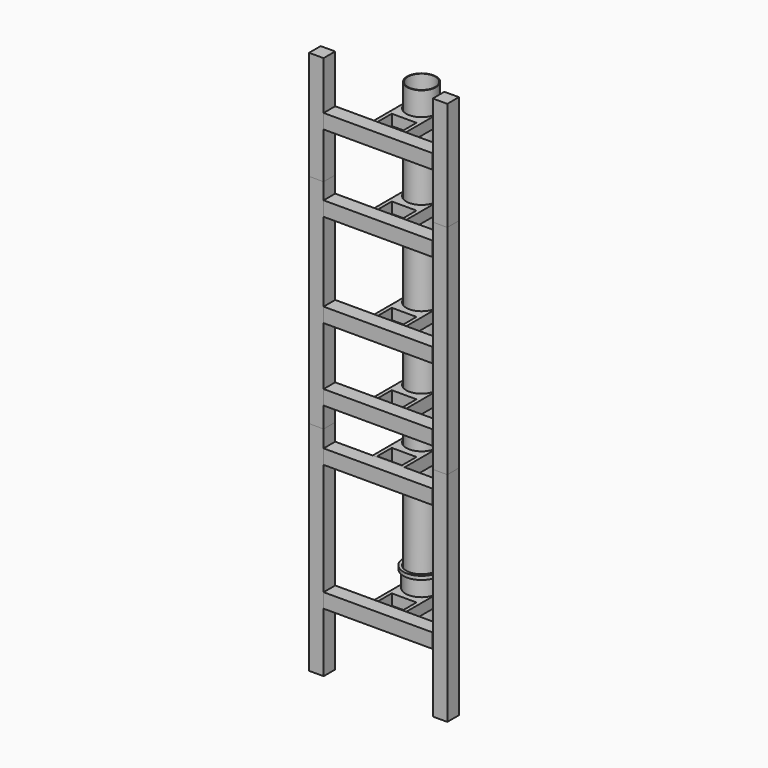
from build123d import *

# Parameters (mm, degrees)
SKETCH026_R             = 42
PAD020_DEPTH            = 5
SKETCH027_R             = 38
PAD021_DEPTH            = 5
POCKET001_DEPTH         = 5
SKETCH029_R             = 38
PAD022_DEPTH            = 5
SKETCH030_R             = 42
PAD023_DEPTH            = 10
SKETCH031_R             = 42
PAD024_DEPTH            = 10
SKETCH057_W             = 10
SKETCH057_H             = 35
PAD047_DEPTH            = 50
SKETCH058_W             = 88
SKETCH058_H             = 35
SKETCH058_R             = 4.1
PAD048_DEPTH            = 5
SKETCH032_R             = 40
SKETCH032_R_2           = 38
PAD025_DEPTH            = 124
SKETCH038_R             = 42
PAD026_DEPTH            = 5
SKETCH035_R             = 38
PAD030_DEPTH            = 5
POCKET002_DEPTH         = 5
SKETCH037_R             = 38
PAD029_DEPTH            = 5
SKETCH036_R             = 42
PAD027_DEPTH            = 10
SKETCH034_R             = 42
PAD028_DEPTH            = 10
SKETCH055_W             = 10
SKETCH055_H             = 35
PAD045_DEPTH            = 50
SKETCH056_W             = 88
SKETCH056_H             = 35
SKETCH056_R             = 4.1
PAD046_DEPTH            = 5
SKETCH039_R             = 40
SKETCH039_R_2           = 38
PAD031_DEPTH            = 586.5
SKETCH040_R             = 40
SKETCH040_R_2           = 38
PAD032_DEPTH            = 157
SKETCH041_R             = 40
SKETCH041_R_2           = 38
PAD033_DEPTH            = 283.5
SKETCH_R                = 50
SKETCH_R_2              = 42
PAD_DEPTH               = 10
SKETCH042_R             = 44
SKETCH042_R_2           = 38
PAD034_DEPTH            = 120
SKETCH043_R             = 54
SKETCH043_R_2           = 38
PAD035_DEPTH            = 5
SKETCH044_R             = 54
SKETCH044_R_2           = 52
PAD036_DEPTH            = 5
POCKET_DEPTH            = 5
SKETCH046_R             = 54
SKETCH046_R_2           = 38
PAD037_DEPTH            = 5
SKETCH047_R             = 42
PAD038_DEPTH            = 30
POCKET003_DEPTH         = 30
SKETCH051_W             = 10
SKETCH051_H             = 30
PAD041_DEPTH            = 50
SKETCH052_W             = 88
SKETCH052_H             = 30
SKETCH052_R             = 4.1
PAD042_DEPTH            = 5
SKETCH049_W             = 40
SKETCH049_H             = 40
PAD039_DEPTH            = 600
SKETCH050_W             = 40
SKETCH050_H             = 40
PAD040_DEPTH            = 300
BODY012_PLACEMENT_ANGLE = 90
SKETCH053_W             = 40
SKETCH053_H             = 40
PAD043_DEPTH            = 300
BODY013_PLACEMENT_ANGLE = 90
SKETCH054_W             = 40
SKETCH054_H             = 40
PAD044_DEPTH            = 300
BODY014_PLACEMENT_ANGLE = 90
SKETCH062_R             = 42
PAD051_DEPTH            = 30
POCKET004_DEPTH         = 30
SKETCH059_W             = 10
SKETCH059_H             = 30
PAD050_DEPTH            = 50
SKETCH061_W             = 88
SKETCH061_H             = 30
SKETCH061_R             = 4.1
PAD049_DEPTH            = 5
SKETCH065_R             = 42
PAD054_DEPTH            = 30
POCKET005_DEPTH         = 30
SKETCH063_W             = 10
SKETCH063_H             = 30
PAD053_DEPTH            = 50
SKETCH064_W             = 88
SKETCH064_H             = 30
SKETCH064_R             = 4.1
PAD052_DEPTH            = 5
SKETCH067_W             = 40
SKETCH067_H             = 40
PAD055_DEPTH            = 300
BODY017_PLACEMENT_ANGLE = 90
SKETCH068_W             = 40
SKETCH068_H             = 40
PAD056_DEPTH            = 300
BODY018_PLACEMENT_ANGLE = 90
SKETCH069_W             = 40
SKETCH069_H             = 40
PAD057_DEPTH            = 600
SKETCH070_W             = 40
SKETCH070_H             = 40
PAD058_DEPTH            = 300
SKETCH071_W             = 40
SKETCH071_H             = 40
PAD059_DEPTH            = 600
SKETCH072_W             = 40
SKETCH072_H             = 40
PAD060_DEPTH            = 600
SKETCH073_W             = 40
SKETCH073_H             = 40
PAD061_DEPTH            = 300
SKETCH074_R             = 42
PAD062_DEPTH            = 30
POCKET006_DEPTH         = 30
SKETCH076_W             = 10
SKETCH076_H             = 30
PAD063_DEPTH            = 50
SKETCH077_W             = 88
SKETCH077_H             = 30
SKETCH077_R             = 4.1
PAD064_DEPTH            = 5
SKETCH078_W             = 40
SKETCH078_H             = 40
PAD065_DEPTH            = 300
BODY025_PLACEMENT_ANGLE = 90


with BuildPart() as window_support1:
    # Sketch026 → Pad020 (new body)
    with BuildSketch(Plane.XY.offset(5)):
        with BuildLine():
            Line((-44, -60), (-44, 0))
            ThreePointArc((44, 0), (0, 44), (-44, 0))
            Line((44, -60), (44, 0))
            Line((-44, -60), (44, -60))
        make_face()
        Circle(SKETCH026_R, mode=Mode.SUBTRACT)
    extrude(amount=PAD020_DEPTH)

    # Sketch027 (on Face6 of Pad020) → Pad021 (join)
    with BuildSketch(Plane(origin=(0, 0, 5), x_dir=(1, 0, 0), z_dir=(0, 0, -1))):
        with BuildLine():
            Line((-44, 0), (-44, 60))
            Line((-44, 60), (44, 60))
            Line((44, 60), (44, 0))
            ThreePointArc((-44, 0), (0, -44), (44, 0))
        make_face()
        Circle(SKETCH027_R, mode=Mode.SUBTRACT)
    extrude(amount=PAD021_DEPTH)

    # Sketch028 (on Face5 of Pad021) → Pocket001 (cut)
    with BuildSketch(Plane.XY.offset(10)):
        with BuildLine():
            ThreePointArc((44, 0), (0, 44), (-44, 0))
            Line((-44, 0), (44, 0))
        make_face()
    extrude(amount=-POCKET001_DEPTH, mode=Mode.SUBTRACT)

    # Sketch029 (on Face5 of Pocket001) → Pad022 (join)
    with BuildSketch(Plane.XY.offset(10)):
        with BuildLine():
            Line((44, 0), (44, -60))
            Line((44, -60), (-44, -60))
            Line((-44, -60), (-44, 0))
            ThreePointArc((44, 0), (0, 44), (-44, 0))
        make_face()
        Circle(SKETCH029_R, mode=Mode.SUBTRACT)
    extrude(amount=PAD022_DEPTH)

    # Sketch030 (on Face15 of Pad022) → Pad023 (join)
    with BuildSketch(Plane.XY.offset(15)):
        with BuildLine():
            Line((44, 0), (44, -60))
            Line((44, -60), (-44, -60))
            Line((-44, -60), (-44, 0))
            ThreePointArc((44, 0), (0, 44), (-44, 0))
        make_face()
        Circle(SKETCH030_R, mode=Mode.SUBTRACT)
    extrude(amount=PAD023_DEPTH)

    # Sketch031 (on Face13 of Pad023) → Pad024 (join)
    with BuildSketch(Plane(origin=(0, 0, 0), x_dir=(1, 0, 0), z_dir=(0, 0, -1))):
        with BuildLine():
            Line((-44, 0), (-44, 60))
            Line((-44, 60), (44, 60))
            Line((44, 60), (44, 0))
            ThreePointArc((-44, 0), (0, -44), (44, 0))
        make_face()
        Circle(SKETCH031_R, mode=Mode.SUBTRACT)
    extrude(amount=PAD024_DEPTH)

    # Sketch057 (on Face19 of Pad024) → Pad047 (join)
    with BuildSketch(Plane(origin=(0, -60, 5), x_dir=(1, 0, 0), z_dir=(0, -1, 0))):
        with Locations((-39, 2.5)):
            Rectangle(SKETCH057_W, SKETCH057_H)
        with Locations((39, 2.5)):
            Rectangle(SKETCH057_W, SKETCH057_H)
    extrude(amount=PAD047_DEPTH)

    # Sketch058 (on Face43 of Pad047) → Pad048 (join)
    with BuildSketch(Plane(origin=(0, -110, 5), x_dir=(1, 0, 0), z_dir=(0, -1, 0))):
        with Locations((0, 2.5)):
            Rectangle(SKETCH058_W, SKETCH058_H)
        with Locations((-22, 2.5)):
            Circle(SKETCH058_R, mode=Mode.SUBTRACT)
        with Locations((22, 2.5)):
            Circle(SKETCH058_R, mode=Mode.SUBTRACT)
    extrude(amount=PAD048_DEPTH)


with BuildPart() as w2_to_w3_pipe:
    # Sketch032 → Pad025 (new body)
    with BuildSketch(Plane.XY):
        Circle(SKETCH032_R)
        Circle(SKETCH032_R_2, mode=Mode.SUBTRACT)
    extrude(amount=PAD025_DEPTH)


with BuildPart() as w2_to_w3_pipe_1:
    # Body005 placement: moved
    add(w2_to_w3_pipe.part.moved(Location((0, 0, 16))))


with BuildPart() as window_support2:
    # Sketch038 → Pad026 (new body)
    with BuildSketch(Plane.XY.offset(5)):
        with BuildLine():
            Line((-44, -60), (-44, 0))
            ThreePointArc((44, 0), (0, 44), (-44, 0))
            Line((44, -60), (44, 0))
            Line((-44, -60), (44, -60))
        make_face()
        Circle(SKETCH038_R, mode=Mode.SUBTRACT)
    extrude(amount=PAD026_DEPTH)

    # Sketch035 (on Face6 of Pad026) → Pad030 (join)
    with BuildSketch(Plane(origin=(0, 0, 5), x_dir=(1, 0, 0), z_dir=(0, 0, -1))):
        with BuildLine():
            Line((-44, 0), (-44, 60))
            Line((-44, 60), (44, 60))
            Line((44, 60), (44, 0))
            ThreePointArc((-44, 0), (0, -44), (44, 0))
        make_face()
        Circle(SKETCH035_R, mode=Mode.SUBTRACT)
    extrude(amount=PAD030_DEPTH)

    # Sketch033 (on Face5 of Pad030) → Pocket002 (cut)
    with BuildSketch(Plane.XY.offset(10)):
        with BuildLine():
            ThreePointArc((44, 0), (0, 44), (-44, 0))
            Line((-44, 0), (44, 0))
        make_face()
    extrude(amount=-POCKET002_DEPTH, mode=Mode.SUBTRACT)

    # Sketch037 (on Face5 of Pocket002) → Pad029 (join)
    with BuildSketch(Plane.XY.offset(10)):
        with BuildLine():
            Line((44, 0), (44, -60))
            Line((44, -60), (-44, -60))
            Line((-44, -60), (-44, 0))
            ThreePointArc((44, 0), (0, 44), (-44, 0))
        make_face()
        Circle(SKETCH037_R, mode=Mode.SUBTRACT)
    extrude(amount=PAD029_DEPTH)

    # Sketch036 (on Face15 of Pad029) → Pad027 (join)
    with BuildSketch(Plane.XY.offset(15)):
        with BuildLine():
            Line((44, 0), (44, -60))
            Line((44, -60), (-44, -60))
            Line((-44, -60), (-44, 0))
            ThreePointArc((44, 0), (0, 44), (-44, 0))
        make_face()
        Circle(SKETCH036_R, mode=Mode.SUBTRACT)
    extrude(amount=PAD027_DEPTH)

    # Sketch034 (on Face13 of Pad027) → Pad028 (join)
    with BuildSketch(Plane(origin=(0, 0, 0), x_dir=(1, 0, 0), z_dir=(0, 0, -1))):
        with BuildLine():
            Line((-44, 0), (-44, 60))
            Line((-44, 60), (44, 60))
            Line((44, 60), (44, 0))
            ThreePointArc((-44, 0), (0, -44), (44, 0))
        make_face()
        Circle(SKETCH034_R, mode=Mode.SUBTRACT)
    extrude(amount=PAD028_DEPTH)

    # Sketch055 (on Face19 of Pad028) → Pad045 (join)
    with BuildSketch(Plane(origin=(0, -60, 5), x_dir=(1, 0, 0), z_dir=(0, -1, 0))):
        with Locations((-39, 2.5)):
            Rectangle(SKETCH055_W, SKETCH055_H)
        with Locations((39, 2.5)):
            Rectangle(SKETCH055_W, SKETCH055_H)
    extrude(amount=PAD045_DEPTH)

    # Sketch056 (on Face43 of Pad045) → Pad046 (join)
    with BuildSketch(Plane(origin=(0, -110, 5), x_dir=(1, 0, 0), z_dir=(0, -1, 0))):
        with Locations((0, 2.5)):
            Rectangle(SKETCH056_W, SKETCH056_H)
        with Locations((-22, 2.5)):
            Circle(SKETCH056_R, mode=Mode.SUBTRACT)
        with Locations((22, 2.5)):
            Circle(SKETCH056_R, mode=Mode.SUBTRACT)
    extrude(amount=PAD046_DEPTH)


with BuildPart() as window_support2_1:
    # Body006 placement: moved
    add(window_support2.part.moved(Location((0, 0, 140))))


with BuildPart() as w3_to_end:
    # Sketch039 → Pad031 (new body)
    with BuildSketch(Plane.XY):
        Circle(SKETCH039_R)
        Circle(SKETCH039_R_2, mode=Mode.SUBTRACT)
    extrude(amount=PAD031_DEPTH)


with BuildPart() as w3_to_end_1:
    # Body007 placement: moved
    add(w3_to_end.part.moved(Location((0, 0, 156))))


with BuildPart() as end_to_sample:
    # Sketch040 → Pad032 (new body)
    with BuildSketch(Plane.XY):
        Circle(SKETCH040_R)
        Circle(SKETCH040_R_2, mode=Mode.SUBTRACT)
    extrude(amount=PAD032_DEPTH)


with BuildPart() as end_to_sample_1:
    # Body008 placement: moved
    add(end_to_sample.part.moved(Location((0, 0, 743))))


with BuildPart() as top_to_w2:
    # Sketch041 → Pad033 (new body)
    with BuildSketch(Plane.XY):
        Circle(SKETCH041_R)
        Circle(SKETCH041_R_2, mode=Mode.SUBTRACT)
    extrude(amount=-PAD033_DEPTH)


with BuildPart() as top:
    # Sketch → Pad (new body)
    with BuildSketch(Plane.XY):
        Circle(SKETCH_R)
        Circle(SKETCH_R_2, mode=Mode.SUBTRACT)
    extrude(amount=PAD_DEPTH)

    # Sketch042 (on Face3 of Pad) → Pad034 (join)
    with BuildSketch(Plane(origin=(0, 0, 0), x_dir=(1, 0, 0), z_dir=(0, 0, -1))):
        Circle(SKETCH042_R)
        Circle(SKETCH042_R_2, mode=Mode.SUBTRACT)
    extrude(amount=PAD034_DEPTH)

    # Sketch043 (on Face6 of Pad034) → Pad035 (join)
    with BuildSketch(Plane(origin=(0, 0, -120), x_dir=(1, 0, 0), z_dir=(0, 0, -1))):
        Circle(SKETCH043_R)
        Circle(SKETCH043_R_2, mode=Mode.SUBTRACT)
    extrude(amount=PAD035_DEPTH)

    # Sketch044 (on Face10 of Pad035) → Pad036 (join)
    with BuildSketch(Plane(origin=(0, 0, -125), x_dir=(1, 0, 0), z_dir=(0, 0, -1))):
        Circle(SKETCH044_R)
        Circle(SKETCH044_R_2, mode=Mode.SUBTRACT)
    extrude(amount=PAD036_DEPTH)

    # Sketch045 (on Face12 of Pad036) → Pocket (cut)
    with BuildSketch(Plane(origin=(0, 0, -130), x_dir=(1, 0, 0), z_dir=(0, 0, -1))):
        with BuildLine():
            Line((0, 0), (54, 0))
            ThreePointArc((-54, 0), (0, -54), (54, 0))
            Line((0, 0), (-54, 0))
        make_face()
    extrude(amount=-POCKET_DEPTH, mode=Mode.SUBTRACT)

    # Sketch046 (on Face16 of Pocket) → Pad037 (join)
    with BuildSketch(Plane(origin=(0, 0, -130), x_dir=(1, 0, 0), z_dir=(0, 0, -1))):
        Circle(SKETCH046_R)
        Circle(SKETCH046_R_2, mode=Mode.SUBTRACT)
    extrude(amount=PAD037_DEPTH)


with BuildPart() as top_1:
    # Body placement: moved
    add(top.part.moved(Location((0, 0, -283))))


with BuildPart() as pipe_support:
    # Sketch047 → Pad038 (new body)
    with BuildSketch(Plane.XY):
        with BuildLine():
            Line((44, 0), (44, -60))
            Line((44, -60), (-44, -60))
            Line((-44, -60), (-44, 0))
            ThreePointArc((44, 0), (0, 44), (-44, 0))
        make_face()
        Circle(SKETCH047_R, mode=Mode.SUBTRACT)
    extrude(amount=PAD038_DEPTH)

    # Sketch048 (on Face6 of Pad038) → Pocket003 (cut)
    with BuildSketch(Plane(origin=(0, 0, 0), x_dir=(1, 0, 0), z_dir=(0, 0, -1))):
        with BuildLine():
            Line((0, -10), (43, -10))
            ThreePointArc((-43, -10), (0, -53), (43, -10))
            Line((0, -10), (-43, -10))
        make_face()
    extrude(amount=-POCKET003_DEPTH, mode=Mode.SUBTRACT)

    # Sketch051 (on Face3 of Pocket003) → Pad041 (join)
    with BuildSketch(Plane.XZ.offset(60)):
        with Locations((-39, 15)):
            Rectangle(SKETCH051_W, SKETCH051_H)
        with Locations((39, 15)):
            Rectangle(SKETCH051_W, SKETCH051_H)
    extrude(amount=PAD041_DEPTH)

    # Sketch052 (on Face21 of Pad041) → Pad042 (join)
    with BuildSketch(Plane.XZ.offset(110)):
        with Locations((0, 15)):
            Rectangle(SKETCH052_W, SKETCH052_H)
        with Locations((-22, 15)):
            Circle(SKETCH052_R, mode=Mode.SUBTRACT)
        with Locations((22, 15)):
            Circle(SKETCH052_R, mode=Mode.SUBTRACT)
    extrude(amount=PAD042_DEPTH)


with BuildPart() as pipe_support_1:
    # Body010 placement: moved
    add(pipe_support.part.moved(Location((0, 0, 335))))


with BuildPart() as extrusion1:
    # Sketch049 → Pad039 (new body)
    with BuildSketch(Plane.XY):
        Rectangle(SKETCH049_W, SKETCH049_H)
    extrude(amount=PAD039_DEPTH)


with BuildPart() as extrusion1_1:
    # Body011 placement: moved
    add(extrusion1.part.moved(Location((-166, -135, -527))))


with BuildPart() as extrusion002:
    # Sketch050 → Pad040 (new body)
    with BuildSketch(Plane.XY):
        Rectangle(SKETCH050_W, SKETCH050_H)
    extrude(amount=PAD040_DEPTH)


with BuildPart() as extrusion002_1:
    # Body012 placement: moved
    add(extrusion002.part.moved(Location((-146, -135, 350))).rotate(Axis((-146, -135, 350), (0, 1, 0)), BODY012_PLACEMENT_ANGLE))


with BuildPart() as extrusion003:
    # Sketch053 → Pad043 (new body)
    with BuildSketch(Plane.XY):
        Rectangle(SKETCH053_W, SKETCH053_H)
    extrude(amount=PAD043_DEPTH)


with BuildPart() as extrusion003_1:
    # Body013 placement: moved
    add(extrusion003.part.moved(Location((-146, -135, 150))).rotate(Axis((-146, -135, 150), (0, 1, 0)), BODY013_PLACEMENT_ANGLE))


with BuildPart() as extrusion004:
    # Sketch054 → Pad044 (new body)
    with BuildSketch(Plane.XY):
        Rectangle(SKETCH054_W, SKETCH054_H)
    extrude(amount=PAD044_DEPTH)


with BuildPart() as extrusion004_1:
    # Body014 placement: moved
    add(extrusion004.part.moved(Location((-146, -135, 6))).rotate(Axis((-146, -135, 6), (0, 1, 0)), BODY014_PLACEMENT_ANGLE))


with BuildPart() as pipe_support002:
    # Sketch062 → Pad051 (new body)
    with BuildSketch(Plane.XY):
        with BuildLine():
            Line((44, 0), (44, -60))
            Line((44, -60), (-44, -60))
            Line((-44, -60), (-44, 0))
            ThreePointArc((44, 0), (0, 44), (-44, 0))
        make_face()
        Circle(SKETCH062_R, mode=Mode.SUBTRACT)
    extrude(amount=PAD051_DEPTH)

    # Sketch060 (on Face6 of Pad051) → Pocket004 (cut)
    with BuildSketch(Plane(origin=(0, 0, 0), x_dir=(1, 0, 0), z_dir=(0, 0, -1))):
        with BuildLine():
            Line((0, -10), (43, -10))
            ThreePointArc((-43, -10), (0, -53), (43, -10))
            Line((0, -10), (-43, -10))
        make_face()
    extrude(amount=-POCKET004_DEPTH, mode=Mode.SUBTRACT)

    # Sketch059 (on Face3 of Pocket004) → Pad050 (join)
    with BuildSketch(Plane.XZ.offset(60)):
        with Locations((-39, 15)):
            Rectangle(SKETCH059_W, SKETCH059_H)
        with Locations((39, 15)):
            Rectangle(SKETCH059_W, SKETCH059_H)
    extrude(amount=PAD050_DEPTH)

    # Sketch061 (on Face21 of Pad050) → Pad049 (join)
    with BuildSketch(Plane.XZ.offset(110)):
        with Locations((0, 15)):
            Rectangle(SKETCH061_W, SKETCH061_H)
        with Locations((-22, 15)):
            Circle(SKETCH061_R, mode=Mode.SUBTRACT)
        with Locations((22, 15)):
            Circle(SKETCH061_R, mode=Mode.SUBTRACT)
    extrude(amount=PAD049_DEPTH)


with BuildPart() as pipe_support002_1:
    # Body015 placement: moved
    add(pipe_support002.part.moved(Location((0, 0, -358))))


with BuildPart() as pipe_support003:
    # Sketch065 → Pad054 (new body)
    with BuildSketch(Plane.XY):
        with BuildLine():
            Line((44, 0), (44, -60))
            Line((44, -60), (-44, -60))
            Line((-44, -60), (-44, 0))
            ThreePointArc((44, 0), (0, 44), (-44, 0))
        make_face()
        Circle(SKETCH065_R, mode=Mode.SUBTRACT)
    extrude(amount=PAD054_DEPTH)

    # Sketch066 (on Face6 of Pad054) → Pocket005 (cut)
    with BuildSketch(Plane(origin=(0, 0, 0), x_dir=(1, 0, 0), z_dir=(0, 0, -1))):
        with BuildLine():
            Line((0, -10), (43, -10))
            ThreePointArc((-43, -10), (0, -53), (43, -10))
            Line((0, -10), (-43, -10))
        make_face()
    extrude(amount=-POCKET005_DEPTH, mode=Mode.SUBTRACT)

    # Sketch063 (on Face3 of Pocket005) → Pad053 (join)
    with BuildSketch(Plane.XZ.offset(60)):
        with Locations((-39, 15)):
            Rectangle(SKETCH063_W, SKETCH063_H)
        with Locations((39, 15)):
            Rectangle(SKETCH063_W, SKETCH063_H)
    extrude(amount=PAD053_DEPTH)

    # Sketch064 (on Face21 of Pad053) → Pad052 (join)
    with BuildSketch(Plane.XZ.offset(110)):
        with Locations((0, 15)):
            Rectangle(SKETCH064_W, SKETCH064_H)
        with Locations((-22, 15)):
            Circle(SKETCH064_R, mode=Mode.SUBTRACT)
        with Locations((22, 15)):
            Circle(SKETCH064_R, mode=Mode.SUBTRACT)
    extrude(amount=PAD052_DEPTH)


with BuildPart() as pipe_support003_1:
    # Body016 placement: moved
    add(pipe_support003.part.moved(Location((0, 0, 806))))


with BuildPart() as extrusion005:
    # Sketch067 → Pad055 (new body)
    with BuildSketch(Plane.XY):
        Rectangle(SKETCH067_W, SKETCH067_H)
    extrude(amount=PAD055_DEPTH)


with BuildPart() as extrusion005_1:
    # Body017 placement: moved
    add(extrusion005.part.moved(Location((-146, -135, -343))).rotate(Axis((-146, -135, -343), (0, 1, 0)), BODY017_PLACEMENT_ANGLE))


with BuildPart() as extrusion006:
    # Sketch068 → Pad056 (new body)
    with BuildSketch(Plane.XY):
        Rectangle(SKETCH068_W, SKETCH068_H)
    extrude(amount=PAD056_DEPTH)


with BuildPart() as extrusion006_1:
    # Body018 placement: moved
    add(extrusion006.part.moved(Location((-146, -135, 820))).rotate(Axis((-146, -135, 820), (0, 1, 0)), BODY018_PLACEMENT_ANGLE))


with BuildPart() as extrusion007:
    # Sketch069 → Pad057 (new body)
    with BuildSketch(Plane.XY):
        Rectangle(SKETCH069_W, SKETCH069_H)
    extrude(amount=PAD057_DEPTH)


with BuildPart() as extrusion007_1:
    # Body019 placement: moved
    add(extrusion007.part.moved(Location((-166, -135, 73))))


with BuildPart() as extrusion008:
    # Sketch070 → Pad058 (new body)
    with BuildSketch(Plane.XY):
        Rectangle(SKETCH070_W, SKETCH070_H)
    extrude(amount=PAD058_DEPTH)


with BuildPart() as extrusion008_1:
    # Body020 placement: moved
    add(extrusion008.part.moved(Location((-166, -135, 673))))


with BuildPart() as extrusion009:
    # Sketch071 → Pad059 (new body)
    with BuildSketch(Plane.XY):
        Rectangle(SKETCH071_W, SKETCH071_H)
    extrude(amount=PAD059_DEPTH)


with BuildPart() as extrusion009_1:
    # Body021 placement: moved
    add(extrusion009.part.moved(Location((175, -135, 73))))


with BuildPart() as extrusion010:
    # Sketch072 → Pad060 (new body)
    with BuildSketch(Plane.XY):
        Rectangle(SKETCH072_W, SKETCH072_H)
    extrude(amount=PAD060_DEPTH)


with BuildPart() as extrusion010_1:
    # Body022 placement: moved
    add(extrusion010.part.moved(Location((175, -135, -527))))


with BuildPart() as extrusion011:
    # Sketch073 → Pad061 (new body)
    with BuildSketch(Plane.XY):
        Rectangle(SKETCH073_W, SKETCH073_H)
    extrude(amount=PAD061_DEPTH)


with BuildPart() as extrusion011_1:
    # Body023 placement: moved
    add(extrusion011.part.moved(Location((175, -135, 673))))


with BuildPart() as pipe_support004:
    # Sketch074 → Pad062 (new body)
    with BuildSketch(Plane.XY):
        with BuildLine():
            Line((44, 0), (44, -60))
            Line((44, -60), (-44, -60))
            Line((-44, -60), (-44, 0))
            ThreePointArc((44, 0), (0, 44), (-44, 0))
        make_face()
        Circle(SKETCH074_R, mode=Mode.SUBTRACT)
    extrude(amount=PAD062_DEPTH)

    # Sketch075 (on Face6 of Pad062) → Pocket006 (cut)
    with BuildSketch(Plane(origin=(0, 0, 0), x_dir=(1, 0, 0), z_dir=(0, 0, -1))):
        with BuildLine():
            Line((0, -10), (43, -10))
            ThreePointArc((-43, -10), (0, -53), (43, -10))
            Line((0, -10), (-43, -10))
        make_face()
    extrude(amount=-POCKET006_DEPTH, mode=Mode.SUBTRACT)

    # Sketch076 (on Face3 of Pocket006) → Pad063 (join)
    with BuildSketch(Plane.XZ.offset(60)):
        with Locations((-39, 15)):
            Rectangle(SKETCH076_W, SKETCH076_H)
        with Locations((39, 15)):
            Rectangle(SKETCH076_W, SKETCH076_H)
    extrude(amount=PAD063_DEPTH)

    # Sketch077 (on Face21 of Pad063) → Pad064 (join)
    with BuildSketch(Plane.XZ.offset(110)):
        with Locations((0, 15)):
            Rectangle(SKETCH077_W, SKETCH077_H)
        with Locations((-22, 15)):
            Circle(SKETCH077_R, mode=Mode.SUBTRACT)
        with Locations((22, 15)):
            Circle(SKETCH077_R, mode=Mode.SUBTRACT)
    extrude(amount=PAD064_DEPTH)


with BuildPart() as pipe_support004_1:
    # Body024 placement: moved
    add(pipe_support004.part.moved(Location((0, 0, 593))))


with BuildPart() as extrusion012:
    # Sketch078 → Pad065 (new body)
    with BuildSketch(Plane.XY):
        Rectangle(SKETCH078_W, SKETCH078_H)
    extrude(amount=PAD065_DEPTH)


with BuildPart() as extrusion012_1:
    # Body025 placement: moved
    add(extrusion012.part.moved(Location((-146, -135, 608))).rotate(Axis((-146, -135, 608), (0, 1, 0)), BODY025_PLACEMENT_ANGLE))


solid = Compound([window_support1.part, w2_to_w3_pipe_1.part, window_support2_1.part, w3_to_end_1.part, end_to_sample_1.part, top_to_w2.part, top_1.part, pipe_support_1.part, extrusion1_1.part, extrusion002_1.part, extrusion003_1.part, extrusion004_1.part, pipe_support002_1.part, pipe_support003_1.part, extrusion005_1.part, extrusion006_1.part, extrusion007_1.part, extrusion008_1.part, extrusion009_1.part, extrusion010_1.part, extrusion011_1.part, pipe_support004_1.part, extrusion012_1.part])
